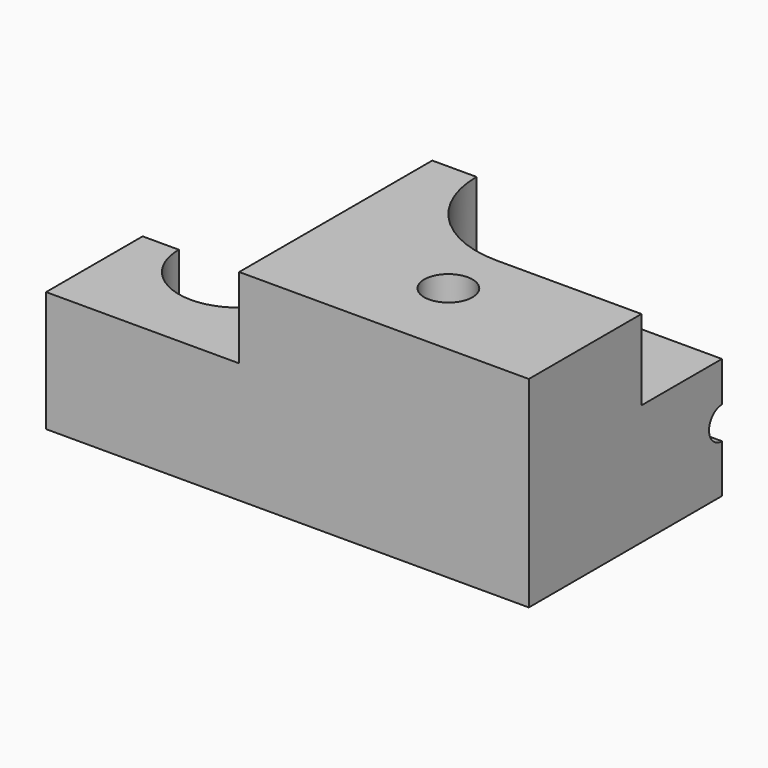
from build123d import *

# Parameters (mm, degrees)
F0_W           = 60
F0_H           = 60
F1_DEPTH       = 25
F2_W           = 24
F2_H           = 60
F3_DEPTH       = 10
F5_D           = 8
F5_CBORE_D     = 15
F5_CBORE_DEPTH = 5
F6_R           = 7.5
F7_DEPTH       = 15
F9_D           = 6
F9_DEPTH       = 15
F9_TIP         = 1.8025818571
F10_R          = 2
F11_DEPTH      = 10.7725839526
F14_DEPTH      = 25


with BuildPart() as f1:
    # F0 (on Top) → F1 (new body)
    with BuildSketch(Plane.XY):
        Rectangle(F0_W, F0_H)
    extrude(amount=F1_DEPTH)

    # F2 (on face) → F3 (cut)
    with BuildSketch(Plane.XY.offset(25)):
        with Locations((-18, 0)):
            Rectangle(F2_W, F2_H)
        with BuildLine():
            Line((30, -12.5), (30, 12.5))
            Line((30, 12.5), (12, 12.5))
            ThreePointArc((12, 12.5), (-0.5, 0), (12, -12.5))
            Line((12, -12.5), (30, -12.5))
        make_face()
    extrude(amount=-F3_DEPTH, mode=Mode.SUBTRACT)

    # F5 (through all)
    with Locations(Plane.XY.offset(15)):
        with Locations((-18, 15), (-18, -15)):
            CounterBoreHole(F5_D / 2, F5_CBORE_D / 2, F5_CBORE_DEPTH)

    # F6 (on face) → F7 (cut, through all)
    with BuildSketch(Plane.XY.offset(15)):
        with Locations((12, 0)):
            Circle(F6_R)
    extrude(amount=-F7_DEPTH, mode=Mode.SUBTRACT)

    # F9
    with Locations(Plane.XY.offset(25)):
        with Locations((12, 20), (12, -20)):
            Hole(F9_D / 2, depth=F9_DEPTH)
            with Locations((0, 0, -(F9_DEPTH + F9_TIP / 2))):  # 118° drill point
                Cone(0, F9_D / 2, F9_TIP, mode=Mode.SUBTRACT)

    # F10 (on face) → F11 (cut, through all)
    with BuildSketch(Plane.YZ.offset(30)):
        with Locations((0, 8)):
            Circle(F10_R)
    extrude(amount=-F11_DEPTH, mode=Mode.SUBTRACT)

    # F13 (on Top) → F14 (cut, through all)
    with BuildSketch(Plane.XY):
        Polygon((-8, 0), (30, 0), (30, 30), (-30, 30), (-30, -15), (-8, -15), align=None)
    extrude(amount=F14_DEPTH, mode=Mode.SUBTRACT)


solid = f1.part
